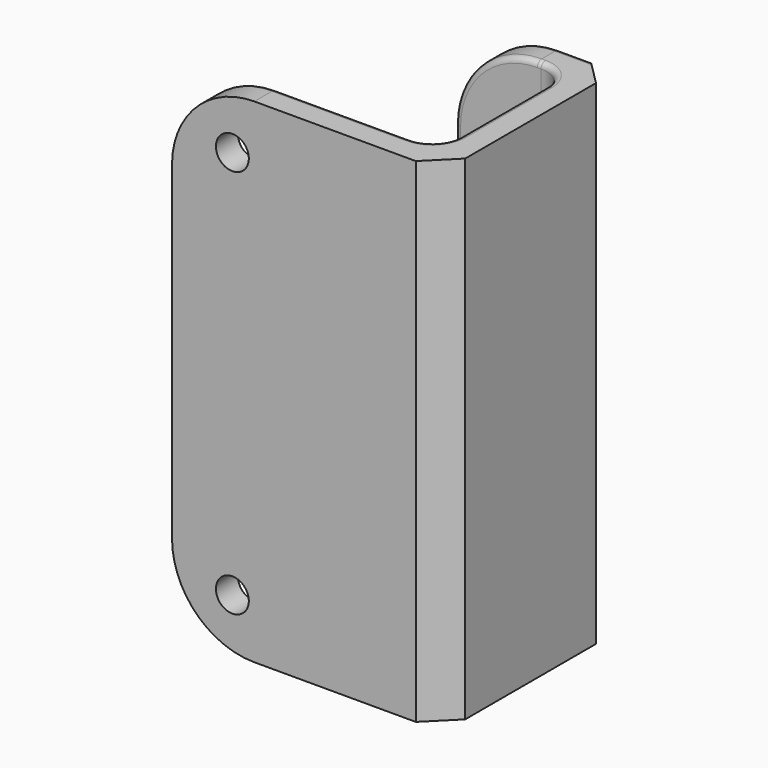
from build123d import *

# Parameters (mm, degrees)
PAD_DEPTH    = 90
SKETCH001_R  = 3
POCKET_DEPTH = 5
FILLET_R     = 15
FILLET001_R  = 1
FILLET002_R  = 1


with BuildPart() as part:
    # Sketch (on XY_Plane of Origin) → Pad (new body)
    with BuildSketch(Plane.XY):
        with BuildLine():
            Line((-49.441831, 0), (-5, 0))
            Line((-5, 0), (0, 5))
            Line((0, 5), (0, 8.139563))
            Line((0, 8.139563), (0, 34.804017))
            Line((0, 34.804017), (-5, 39.804017))
            Line((-5, 39.804017), (-25.687218, 39.804017))
            Line((-25.687218, 39.804017), (-25.687218, 34.804017))
            Line((-10, 34.804017), (-25.687218, 34.804017))
            ThreePointArc((-5, 29.804017), (-6.464466, 33.339551), (-10, 34.804017))
            Line((-5, 10), (-5, 29.804017))
            ThreePointArc((-10, 5), (-6.464466, 6.464466), (-5, 10))
            Line((-20, 5), (-10, 5))
            Line((-20, 5), (-49.441831, 5))
            Line((-49.441831, 5), (-49.441831, 0))
        make_face()
    extrude(amount=PAD_DEPTH)

    # Sketch001 → Pocket (cut)
    with BuildSketch(Plane(origin=(0, 5, 0), x_dir=(-1, 0, 0), z_dir=(0, 1, 0))):
        with Locations((38.441831, 80.5)):
            Circle(SKETCH001_R)
        with Locations((38.441831, 9.5)):
            Circle(SKETCH001_R)
    extrude(amount=-POCKET_DEPTH, mode=Mode.SUBTRACT)

    # Fillet
    fillet_edges = [part.edges().sort_by_distance(p)[0] for p in [
        (-25.687218, 37.304017, 90),
        (-25.687218, 37.304017, 0),
        (-49.441831, 2.5, 0),
        (-49.441831, 2.5, 90),
    ]]
    fillet(fillet_edges, radius=FILLET_R)

    # Fillet001
    fillet001_edges = [part.edges().sort_by_distance(p)[0] for p in [
        (-49.441831, 5, 45),
        (-45.048433, 5, 85.606602),
        (-22.220916, 5, 90),
        (-45.048433, 5, 4.393398),
        (-22.220916, 5, 0),
    ]]
    fillet(fillet001_edges, radius=FILLET001_R)

    # Fillet002
    fillet002_edges = [part.edges().sort_by_distance(p)[0] for p in [
        (-21.29382, 39.804017, 85.606602),
        (-25.687218, 39.804017, 45),
        (-21.29382, 39.804017, 4.393398),
    ]]
    fillet(fillet002_edges, radius=FILLET002_R)


solid = part.part
